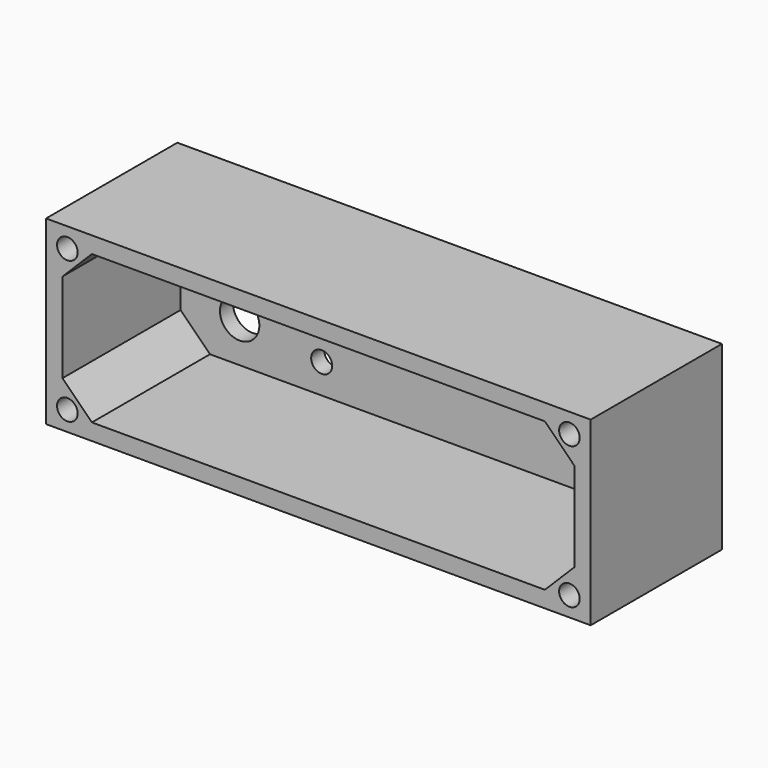
from build123d import *

# Parameters (mm, degrees)
F0_W     = 105.41
F0_H     = 35.052
F0_R     = 1.9939
F1_DEPTH = 31.75
F2_W     = 105.41
F2_H     = 35.052
F3_DEPTH = 3.175
F4_R     = 3.81
F5_DEPTH = 25.4
F6_R     = 2.032
F7_DEPTH = 25.4


with BuildPart() as f1:
    # F0 (on Front) → F1 (new body)
    with BuildSketch(Plane.XZ):
        Rectangle(F0_W, F0_H)
        with Locations((-48.5902, -13.716)):
            Circle(F0_R, mode=Mode.SUBTRACT)
        with Locations((48.5902, -13.716)):
            Circle(F0_R, mode=Mode.SUBTRACT)
        with Locations((-48.5902, 13.716)):
            Circle(F0_R, mode=Mode.SUBTRACT)
        Polygon((-49.53, -8.662538), (-49.53, 8.662538), (-43.841538, 14.351), (43.841538, 14.351), (49.53, 8.662538), (49.53, -8.662538), (43.841538, -14.351), (-43.841538, -14.351), align=None, mode=Mode.SUBTRACT)
        with Locations((48.5902, 13.716)):
            Circle(F0_R, mode=Mode.SUBTRACT)
    extrude(amount=F1_DEPTH)

    # F2 (on face) → F3 (join)
    with BuildSketch(Plane(origin=(0, 0, 0), x_dir=(-1, 0, 0), z_dir=(0, 1, 0))):
        Rectangle(F2_W, F2_H)
    extrude(amount=-F3_DEPTH)

    # F4 (on face) → F5 (cut)
    with BuildSketch(Plane(origin=(0, 0, 0), x_dir=(-1, 0, 0), z_dir=(0, 1, 0))):
        with Locations((-38.1, -6.35)):
            Circle(F4_R)
        with Locations((38.1, -6.35)):
            Circle(F4_R)
    extrude(amount=-F5_DEPTH, mode=Mode.SUBTRACT)

    # F6 (on face) → F7 (cut)
    with BuildSketch(Plane.XZ.offset(3.175)):
        with Locations((22.225, 8.636)):
            Circle(F6_R)
        with Locations((-22.225, -8.636)):
            Circle(F6_R)
    extrude(amount=-F7_DEPTH, mode=Mode.SUBTRACT)


solid = f1.part
